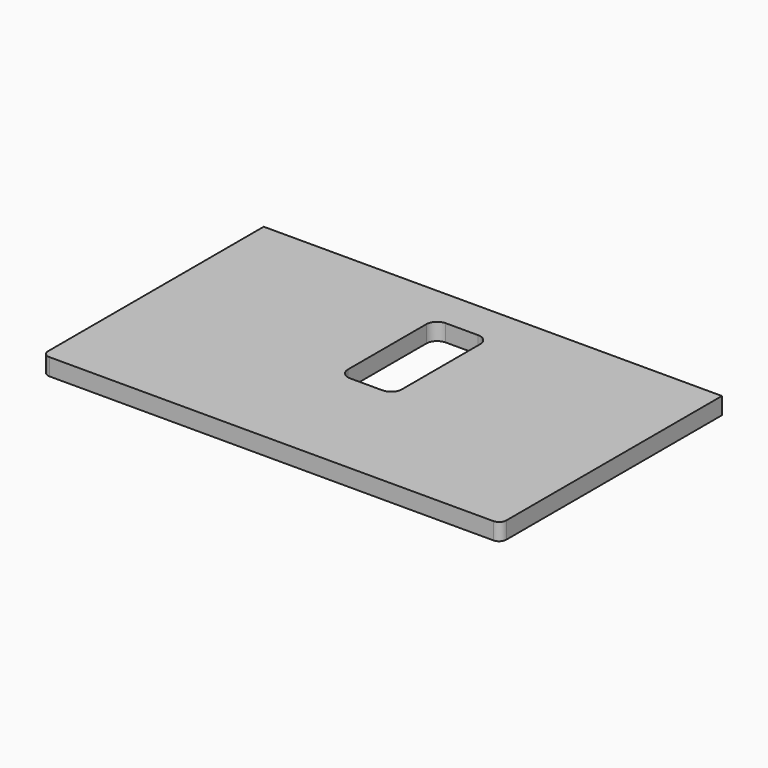
from build123d import *

# Parameters (mm, degrees)
F1_DEPTH = 30


with BuildPart() as f1:
    # F0 (on Top) → F1 (new body)
    with BuildSketch(Plane.XY):
        with BuildLine():
            Line((404.8125, 244.475), (-404.8125, 244.475))
            Line((-404.8125, 244.475), (-404.8125, -231.775))
            ThreePointArc((-404.8125, -231.775), (-401.092756, -240.755256), (-392.1125, -244.475))
            Line((-392.1125, -244.475), (392.1125, -244.475))
            ThreePointArc((392.1125, -244.475), (401.092756, -240.755256), (404.8125, -231.775))
            Line((404.8125, -231.775), (404.8125, 244.475))
        make_face()
        with BuildLine():
            ThreePointArc((-47.625, 157.1625), (-42.045384, 170.632884), (-28.575, 176.2125))
            Line((-28.575, 176.2125), (28.575, 176.2125))
            ThreePointArc((28.575, 176.2125), (42.045384, 170.632884), (47.625, 157.1625))
            Line((47.625, 157.1625), (47.625, -15.875))
            ThreePointArc((47.625, -15.875), (42.045384, -29.345384), (28.575, -34.925))
            Line((28.575, -34.925), (-28.575, -34.925))
            ThreePointArc((-28.575, -34.925), (-42.045384, -29.345384), (-47.625, -15.875))
            Line((-47.625, -15.875), (-47.625, 157.1625))
        make_face(mode=Mode.SUBTRACT)
    extrude(amount=F1_DEPTH)


solid = f1.part
